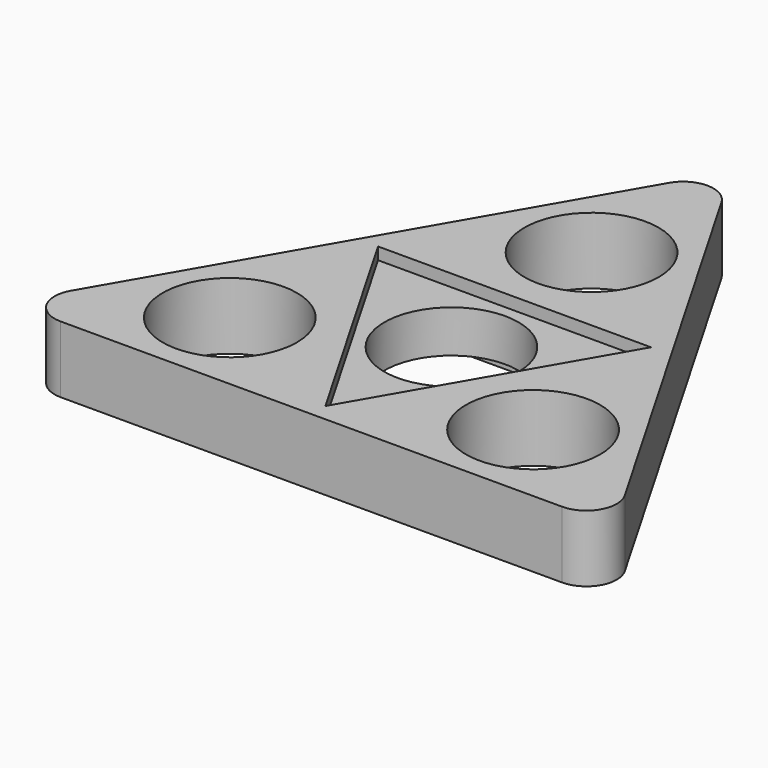
from build123d import *

# Parameters (mm, degrees)
F0_R     = 11.0625
F1_DEPTH = 11
F2_R     = 5
F3_R     = 11.0625
F4_DEPTH = 2
F6_DEPTH = 2


with BuildPart() as f1:
    # F0 (on Top) → F1 (new body)
    with BuildSketch(Plane.XY):
        Polygon((25, 14.433757), (0, 57.735027), (-25, 14.433757), align=None)
        with Locations((0, 28.867513)):
            Circle(F0_R, mode=Mode.SUBTRACT)
        Polygon((0, -28.867513), (-25, 14.433757), (-50, -28.867513), align=None)
        with Locations((-25, -14.433757)):
            Circle(F0_R, mode=Mode.SUBTRACT)
        Polygon((50, -28.867513), (25, 14.433757), (0, -28.867513), align=None)
        with Locations((25, -14.433757)):
            Circle(F0_R, mode=Mode.SUBTRACT)
        Polygon((25, 14.433757), (-25, 14.433757), (0, -28.867513), align=None)
        Circle(F0_R, mode=Mode.SUBTRACT)
    extrude(amount=F1_DEPTH)

    # F2
    f2_edges = [f1.edges().sort_by_distance(p)[0] for p in [
        (50, -28.867513, 5.5),
        (0, 57.735027, 5.5),
        (-50, -28.867513, 5.5),
    ]]
    fillet(f2_edges, radius=F2_R)

    # F3 (on face) → F4 (cut)
    with BuildSketch(Plane.XY.offset(11)):
        Polygon((-22.5, 12.990381), (0, -25.980762), (22.5, 12.990381), align=None)
        Circle(F3_R, mode=Mode.SUBTRACT)
    extrude(amount=-F4_DEPTH, mode=Mode.SUBTRACT)

    # F5 (on face) → F6 (cut)
    with BuildSketch(Plane(origin=(0, 0, 0), x_dir=(1, 0, 0), z_dir=(0, 0, -1))):
        Polygon((-22.5, -12.990381), (22.5, -12.990381), (0, 25.980762), align=None)
    extrude(amount=-F6_DEPTH, mode=Mode.SUBTRACT)


solid = f1.part
